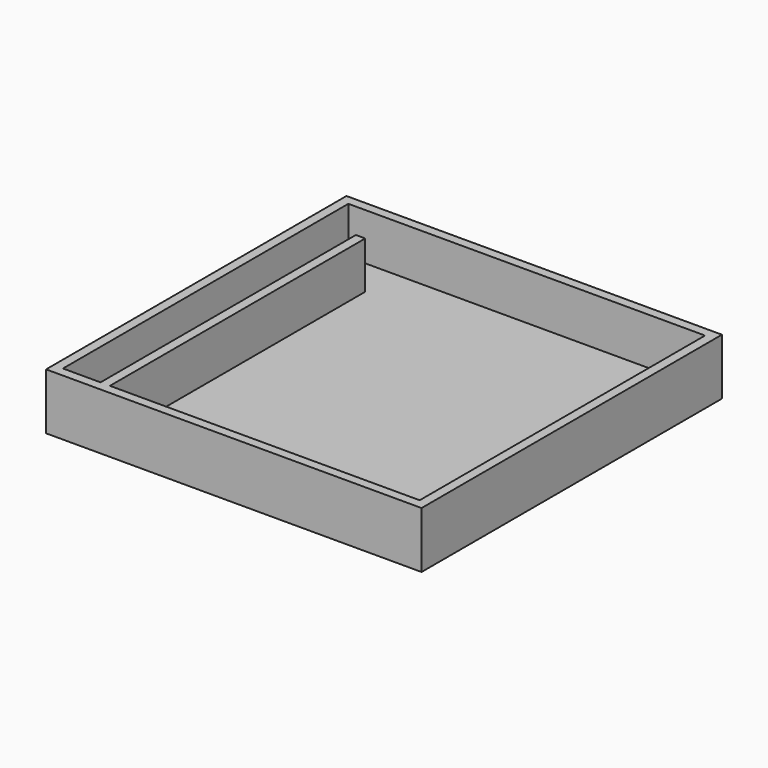
from build123d import *

# Parameters (mm, degrees)
F0_W     = 50.8
F0_H     = 50.8
F1_DEPTH = 7.62
F2_T     = -1.27
F3_W     = 1.27
F3_H     = 43.18
F4_DEPTH = 6.35


with BuildPart() as f1:
    # F0 (on Top) → F1 (new body)
    with BuildSketch(Plane.XY):
        with Locations((-25.4, 25.4)):
            Rectangle(F0_W, F0_H)
    extrude(amount=F1_DEPTH)

    # F2
    f2_openings = [f1.faces().sort_by_distance(p)[0] for p in [
        (-25.4, 25.4, 7.62),
    ]]
    offset(amount=F2_T, openings=f2_openings)

    # F3 (on face) → F4 (join)
    with BuildSketch(Plane.XY.offset(1.27)):
        with Locations((-43.815, 22.86)):
            Rectangle(F3_W, F3_H)
    extrude(amount=F4_DEPTH)


solid = f1.part
